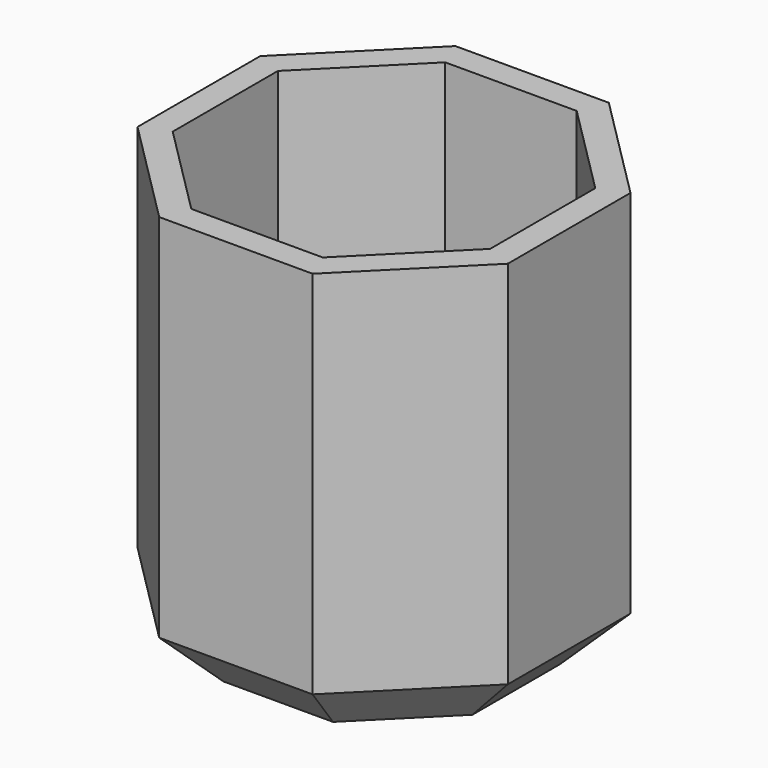
from build123d import *

# Parameters (mm, degrees)
F1_DEPTH = 40
F2_DEPTH = 5
F3_SIZE  = 5


with BuildPart() as f1:
    # F0 (on Top) → F1 (new body)
    with BuildSketch(Plane.XY):
        Polygon((-17.5, 7.248737), (-17.5, -7.248737), (-7.248737, -17.5), (7.248737, -17.5), (17.5, -7.248737), (17.5, 7.248737), (7.248737, 17.5), (-7.248737, 17.5), align=None)
        Polygon((-6.213203, -15), (-15, -6.213203), (-15, 6.213203), (-6.213203, 15), (6.213203, 15), (15, 6.213203), (15, -6.213203), (6.213203, -15), align=None, mode=Mode.SUBTRACT)
    extrude(amount=F1_DEPTH)

    # F0 (on Top) → F2 (join)
    with BuildSketch(Plane.XY):
        Polygon((-15, 6.213203), (-15, -6.213203), (-6.213203, -15), (6.213203, -15), (15, -6.213203), (15, 6.213203), (6.213203, 15), (-6.213203, 15), align=None)
    extrude(amount=F2_DEPTH)

    # F3
    f3_edges = [f1.edges().sort_by_distance(p)[0] for p in [
        (12.374369, -12.374369, 0),
        (0, -17.5, 0),
        (17.5, 0, 0),
        (12.374369, 12.374369, 0),
        (0, 17.5, 0),
        (-12.374369, 12.374369, 0),
        (-17.5, 0, 0),
        (-12.374369, -12.374369, 0),
    ]]
    chamfer(f3_edges, length=F3_SIZE)


solid = f1.part
